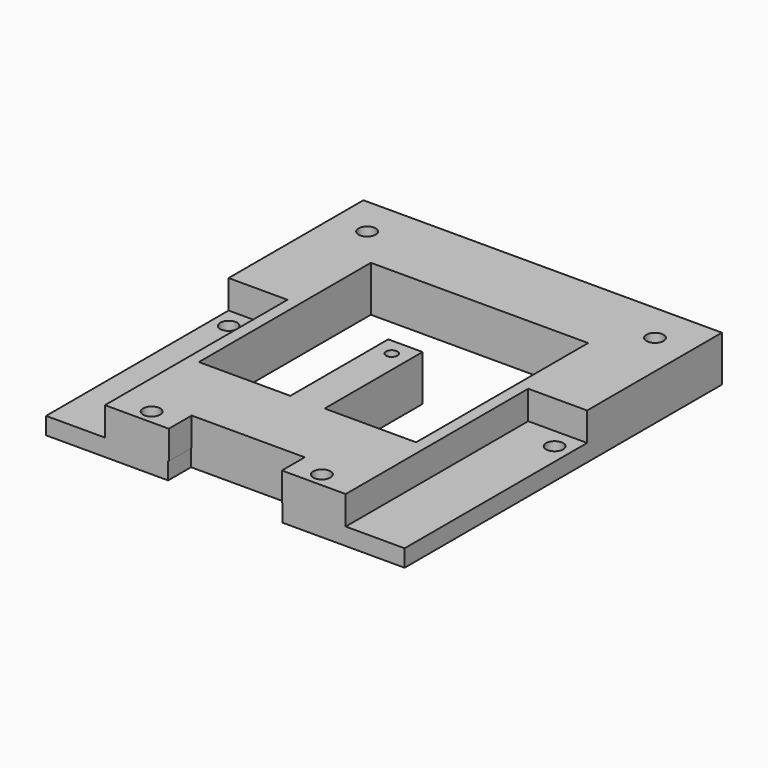
from build123d import *

# Parameters (mm, degrees)
SKETCH002_R   = 1.5
SKETCH002_R_2 = 1
PAD002_DEPTH  = 3
SKETCH001_R   = 1
SKETCH001_R_2 = 1.5
PAD001_DEPTH  = 5


with BuildPart() as platte3:
    # Sketch002 → Pad002 (new body)
    with BuildSketch(Plane.XY):
        Polygon((-31.35, 69.37), (-31.35, 0), (-10, 0), (-10, 5), (10, 5), (10, 0), (31.35, 0), (31.35, 69.37), align=None)
        with Locations((-25.17, 62.47)):
            Circle(SKETCH002_R, mode=Mode.SUBTRACT)
        with Locations((25.17, 62.47)):
            Circle(SKETCH002_R, mode=Mode.SUBTRACT)
        with Locations((-28.5, 36.37)):
            Circle(SKETCH002_R, mode=Mode.SUBTRACT)
        with Locations((28.5, 36.37)):
            Circle(SKETCH002_R, mode=Mode.SUBTRACT)
        with Locations((-15, 2.5)):
            Circle(SKETCH002_R, mode=Mode.SUBTRACT)
        with Locations((15, 2.5)):
            Circle(SKETCH002_R, mode=Mode.SUBTRACT)
        with Locations((0, 36.37)):
            Circle(SKETCH002_R_2, mode=Mode.SUBTRACT)
        Polygon((-19, 55.56), (-19, 17.96), (-3, 17.96), (-3, 39.36), (3, 39.36), (3, 17.96), (19, 17.96), (19, 55.56), align=None, mode=Mode.SUBTRACT)
    extrude(amount=PAD002_DEPTH)


with BuildPart() as base_fusion:
    # Sketch001 → Pad001 (new body)
    with BuildSketch(Plane.XY):
        Polygon((-31.35, 69.37), (-31.35, 39.9), (-21.05, 39.9), (-21.05, 0), (-9.89, 0), (-9.89, 5), (9.89, 5), (9.89, 0), (21.05, 0), (21.05, 39.9), (31.35, 39.9), (31.35, 69.37), align=None)
        with Locations((0, 36.37)):
            Circle(SKETCH001_R, mode=Mode.SUBTRACT)
        with Locations((-14.89, 2.5)):
            Circle(SKETCH001_R_2, mode=Mode.SUBTRACT)
        with Locations((14.89, 2.5)):
            Circle(SKETCH001_R_2, mode=Mode.SUBTRACT)
        with Locations((-25.17, 62.46)):
            Circle(SKETCH001_R_2, mode=Mode.SUBTRACT)
        with Locations((25.17, 62.46)):
            Circle(SKETCH001_R_2, mode=Mode.SUBTRACT)
        Polygon((-19, 55.56), (-19, 17.96), (-3, 17.96), (-3, 39.37), (3, 39.37), (3, 17.96), (19, 17.96), (19, 55.56), align=None, mode=Mode.SUBTRACT)
    extrude(amount=PAD001_DEPTH)


with BuildPart() as base_fusion_1:
    # Body001 placement: moved
    add(base_fusion.part.moved(Location((0, 0, 3))))

    # Fusion: union platte3
    add(platte3.part)


with BuildPart() as base_fusion_2:
    # Clone placement: moved
    add(base_fusion_1.part.moved(Location((31.35, 0, -8))))


solid = base_fusion_2.part
